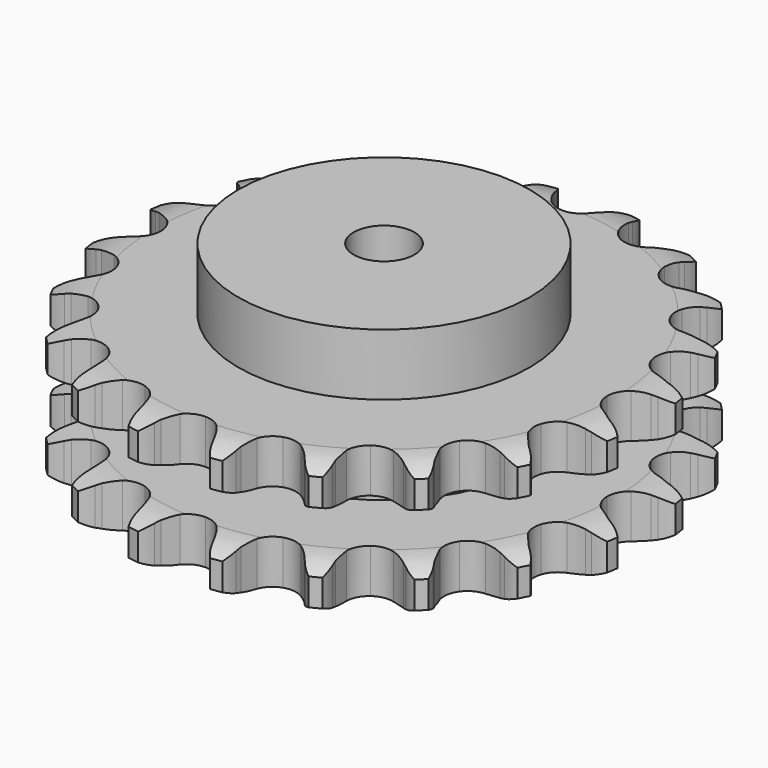
from build123d import *

# Parameters (mm, degrees)
PAD_DEPTH         = 54.6
SKETCH001_R       = 60
PAD001_DEPTH      = 80
SKETCH002_R       = 12.5
POCKET_DEPTH      = 0.001
POCKET_DEPTH_BACK = 80.001


with BuildPart() as part:
    # Sprocket → Pad (new body)
    with BuildSketch(Plane.XY):
        with BuildLine():
            ThreePointArc((-17.474997, 110.332786), (-14.144859, 107.282987), (-11.816516, 103.413891))
            Line((-11.816516, 103.413891), (-10.899684, 101.232833))
            ThreePointArc((-10.899684, 101.232833), (-9.424806, 98.28757), (-7.573355, 95.563242))
            ThreePointArc((-7.573355, 95.563242), (-4.213065, 92.842132), (0, 91.86947))
            ThreePointArc((0, 91.86947), (4.213065, 92.842132), (7.573355, 95.563242))
            ThreePointArc((7.573355, 95.563242), (9.424806, 98.28757), (10.899684, 101.232833))
            Line((10.899684, 101.232833), (11.816516, 103.413891))
            ThreePointArc((11.816516, 103.413891), (14.144859, 107.282987), (17.474997, 110.332786))
            ThreePointArc((17.474997, 110.332786), (19.699706, 106.403186), (20.718475, 102.003959))
            Line((20.718475, 102.003959), (20.91645, 99.646333))
            ThreePointArc((20.91645, 99.646333), (21.409006, 96.389459), (22.327977, 93.226339))
            ThreePointArc((22.327977, 93.226339), (24.682934, 89.600024), (28.389227, 87.373058))
            ThreePointArc((28.389227, 87.373058), (32.696659, 86.996207), (36.733354, 88.545749))
            Line((36.733354, 88.545749), (41.648881, 92.909957))
            ThreePointArc((41.648881, 92.909957), (42.400527, 93.823862), (43.194825, 94.70095))
            ThreePointArc((43.194825, 94.70095), (46.604827, 97.661182), (50.714415, 99.532645))
            ThreePointArc((50.714415, 99.532645), (51.615926, 95.1079), (51.225397, 90.609169))
            Line((51.225397, 90.609169), (50.685137, 88.305755))
            ThreePointArc((50.685137, 88.305755), (50.147156, 85.056076), (50.043692, 81.763793))
            ThreePointArc((50.043692, 81.763793), (51.162795, 77.58724), (53.99952, 74.323962))
            ThreePointArc((53.99952, 74.323962), (57.979677, 72.634486), (62.297637, 72.86078))
            Line((62.297637, 72.86078), (68.321195, 75.492409))
            ThreePointArc((68.321195, 75.492409), (69.318465, 76.129312), (70.344922, 76.718021))
            ThreePointArc((70.344922, 76.718021), (74.502789, 78.47962), (78.989554, 78.989554))
            ThreePointArc((78.989554, 78.989554), (78.47962, 74.502789), (76.718021, 70.344922))
            Line((76.718021, 70.344922), (75.492409, 68.321195))
            ThreePointArc((75.492409, 68.321195), (73.976552, 65.396812), (72.86078, 62.297637))
            ThreePointArc((72.86078, 62.297637), (72.634486, 57.979677), (74.323962, 53.99952))
            ThreePointArc((74.323962, 53.99952), (77.58724, 51.162795), (81.763793, 50.043692))
            Line((81.763793, 50.043692), (88.305755, 50.685137))
            ThreePointArc((88.305755, 50.685137), (89.451029, 50.982695), (90.609169, 51.225397))
            ThreePointArc((90.609169, 51.225397), (95.1079, 51.615926), (99.532645, 50.714415))
            ThreePointArc((99.532645, 50.714415), (97.661182, 46.604827), (94.70095, 43.194825))
            Line((94.70095, 43.194825), (92.909957, 41.648881))
            ThreePointArc((92.909957, 41.648881), (90.564609, 39.336053), (88.545749, 36.733354))
            ThreePointArc((88.545749, 36.733354), (86.996207, 32.696659), (87.373058, 28.389227))
            ThreePointArc((87.373058, 28.389227), (89.600024, 24.682934), (93.226339, 22.327977))
            Line((93.226339, 22.327977), (99.646333, 20.91645))
            ThreePointArc((99.646333, 20.91645), (100.827503, 20.845536), (102.003959, 20.718475))
            ThreePointArc((102.003959, 20.718475), (106.403186, 19.699706), (110.332786, 17.474997))
            ThreePointArc((110.332786, 17.474997), (107.282987, 14.144859), (103.413891, 11.816516))
            Line((103.413891, 11.816516), (101.232833, 10.899684))
            ThreePointArc((101.232833, 10.899684), (98.28757, 9.424806), (95.563242, 7.573355))
            ThreePointArc((95.563242, 7.573355), (92.842132, 4.213065), (91.86947, 0))
            ThreePointArc((91.86947, 0), (92.842132, -4.213065), (95.563242, -7.573355))
            Line((95.563242, -7.573355), (101.232833, -10.899684))
            ThreePointArc((101.232833, -10.899684), (102.334279, -11.332129), (103.413891, -11.816516))
            ThreePointArc((103.413891, -11.816516), (107.282987, -14.144859), (110.332786, -17.474997))
            ThreePointArc((110.332786, -17.474997), (106.403186, -19.699706), (102.003959, -20.718475))
            Line((102.003959, -20.718475), (99.646333, -20.91645))
            ThreePointArc((99.646333, -20.91645), (96.389459, -21.409006), (93.226339, -22.327977))
            ThreePointArc((93.226339, -22.327977), (89.600024, -24.682934), (87.373058, -28.389227))
            ThreePointArc((87.373058, -28.389227), (86.996207, -32.696659), (88.545749, -36.733354))
            Line((88.545749, -36.733354), (92.909957, -41.648881))
            ThreePointArc((92.909957, -41.648881), (93.823862, -42.400527), (94.70095, -43.194825))
            ThreePointArc((94.70095, -43.194825), (97.661182, -46.604827), (99.532645, -50.714415))
            ThreePointArc((99.532645, -50.714415), (95.1079, -51.615926), (90.609169, -51.225397))
            Line((90.609169, -51.225397), (88.305755, -50.685137))
            ThreePointArc((88.305755, -50.685137), (85.056076, -50.147156), (81.763793, -50.043692))
            ThreePointArc((81.763793, -50.043692), (77.58724, -51.162795), (74.323962, -53.99952))
            ThreePointArc((74.323962, -53.99952), (72.634486, -57.979677), (72.86078, -62.297637))
            Line((72.86078, -62.297637), (75.492409, -68.321195))
            ThreePointArc((75.492409, -68.321195), (76.129312, -69.318465), (76.718021, -70.344922))
            ThreePointArc((76.718021, -70.344922), (78.47962, -74.502789), (78.989554, -78.989554))
            ThreePointArc((78.989554, -78.989554), (74.502789, -78.47962), (70.344922, -76.718021))
            Line((70.344922, -76.718021), (68.321195, -75.492409))
            ThreePointArc((68.321195, -75.492409), (65.396812, -73.976552), (62.297637, -72.86078))
            ThreePointArc((62.297637, -72.86078), (57.979677, -72.634486), (53.99952, -74.323962))
            ThreePointArc((53.99952, -74.323962), (51.162795, -77.58724), (50.043692, -81.763793))
            Line((50.043692, -81.763793), (50.685137, -88.305755))
            ThreePointArc((50.685137, -88.305755), (50.982695, -89.451029), (51.225397, -90.609169))
            ThreePointArc((51.225397, -90.609169), (51.615926, -95.1079), (50.714415, -99.532645))
            ThreePointArc((50.714415, -99.532645), (46.604827, -97.661182), (43.194825, -94.70095))
            Line((43.194825, -94.70095), (41.648881, -92.909957))
            ThreePointArc((41.648881, -92.909957), (39.336053, -90.564609), (36.733354, -88.545749))
            ThreePointArc((36.733354, -88.545749), (32.696659, -86.996207), (28.389227, -87.373058))
            ThreePointArc((28.389227, -87.373058), (24.682934, -89.600024), (22.327977, -93.226339))
            Line((22.327977, -93.226339), (20.91645, -99.646333))
            ThreePointArc((20.91645, -99.646333), (20.845536, -100.827503), (20.718475, -102.003959))
            ThreePointArc((20.718475, -102.003959), (19.699706, -106.403186), (17.474997, -110.332786))
            ThreePointArc((17.474997, -110.332786), (14.144859, -107.282987), (11.816516, -103.413891))
            Line((11.816516, -103.413891), (10.899684, -101.232833))
            ThreePointArc((10.899684, -101.232833), (9.424806, -98.28757), (7.573355, -95.563242))
            ThreePointArc((7.573355, -95.563242), (4.213065, -92.842132), (0, -91.86947))
            ThreePointArc((0, -91.86947), (-4.213065, -92.842132), (-7.573355, -95.563242))
            Line((-7.573355, -95.563242), (-10.899684, -101.232833))
            ThreePointArc((-10.899684, -101.232833), (-11.332129, -102.334279), (-11.816516, -103.413891))
            ThreePointArc((-11.816516, -103.413891), (-14.144859, -107.282987), (-17.474997, -110.332786))
            ThreePointArc((-17.474997, -110.332786), (-19.699706, -106.403186), (-20.718475, -102.003959))
            Line((-20.718475, -102.003959), (-20.91645, -99.646333))
            ThreePointArc((-20.91645, -99.646333), (-21.409006, -96.389459), (-22.327977, -93.226339))
            ThreePointArc((-22.327977, -93.226339), (-24.682934, -89.600024), (-28.389227, -87.373058))
            ThreePointArc((-28.389227, -87.373058), (-32.696659, -86.996207), (-36.733354, -88.545749))
            Line((-36.733354, -88.545749), (-41.648881, -92.909957))
            ThreePointArc((-41.648881, -92.909957), (-42.400527, -93.823862), (-43.194825, -94.70095))
            ThreePointArc((-43.194825, -94.70095), (-46.604827, -97.661182), (-50.714415, -99.532645))
            ThreePointArc((-50.714415, -99.532645), (-51.615926, -95.1079), (-51.225397, -90.609169))
            Line((-51.225397, -90.609169), (-50.685137, -88.305755))
            ThreePointArc((-50.685137, -88.305755), (-50.147156, -85.056076), (-50.043692, -81.763793))
            ThreePointArc((-50.043692, -81.763793), (-51.162795, -77.58724), (-53.99952, -74.323962))
            ThreePointArc((-53.99952, -74.323962), (-57.979677, -72.634486), (-62.297637, -72.86078))
            Line((-62.297637, -72.86078), (-68.321195, -75.492409))
            ThreePointArc((-68.321195, -75.492409), (-69.318465, -76.129312), (-70.344922, -76.718021))
            ThreePointArc((-70.344922, -76.718021), (-74.502789, -78.47962), (-78.989554, -78.989554))
            ThreePointArc((-78.989554, -78.989554), (-78.47962, -74.502789), (-76.718021, -70.344922))
            Line((-76.718021, -70.344922), (-75.492409, -68.321195))
            ThreePointArc((-75.492409, -68.321195), (-73.976552, -65.396812), (-72.86078, -62.297637))
            ThreePointArc((-72.86078, -62.297637), (-72.634486, -57.979677), (-74.323962, -53.99952))
            ThreePointArc((-74.323962, -53.99952), (-77.58724, -51.162795), (-81.763793, -50.043692))
            Line((-81.763793, -50.043692), (-88.305755, -50.685137))
            ThreePointArc((-88.305755, -50.685137), (-89.451029, -50.982695), (-90.609169, -51.225397))
            ThreePointArc((-90.609169, -51.225397), (-95.1079, -51.615926), (-99.532645, -50.714415))
            ThreePointArc((-99.532645, -50.714415), (-97.661182, -46.604827), (-94.70095, -43.194825))
            Line((-94.70095, -43.194825), (-92.909957, -41.648881))
            ThreePointArc((-92.909957, -41.648881), (-90.564609, -39.336053), (-88.545749, -36.733354))
            ThreePointArc((-88.545749, -36.733354), (-86.996207, -32.696659), (-87.373058, -28.389227))
            ThreePointArc((-87.373058, -28.389227), (-89.600024, -24.682934), (-93.226339, -22.327977))
            Line((-93.226339, -22.327977), (-99.646333, -20.91645))
            ThreePointArc((-99.646333, -20.91645), (-100.827503, -20.845536), (-102.003959, -20.718475))
            ThreePointArc((-102.003959, -20.718475), (-106.403186, -19.699706), (-110.332786, -17.474997))
            ThreePointArc((-110.332786, -17.474997), (-107.282987, -14.144859), (-103.413891, -11.816516))
            Line((-103.413891, -11.816516), (-101.232833, -10.899684))
            ThreePointArc((-101.232833, -10.899684), (-98.28757, -9.424806), (-95.563242, -7.573355))
            ThreePointArc((-95.563242, -7.573355), (-92.842132, -4.213065), (-91.86947, 0))
            ThreePointArc((-91.86947, 0), (-92.842132, 4.213065), (-95.563242, 7.573355))
            Line((-95.563242, 7.573355), (-101.232833, 10.899684))
            ThreePointArc((-101.232833, 10.899684), (-102.334279, 11.332129), (-103.413891, 11.816516))
            ThreePointArc((-103.413891, 11.816516), (-107.282987, 14.144859), (-110.332786, 17.474997))
            ThreePointArc((-110.332786, 17.474997), (-106.403186, 19.699706), (-102.003959, 20.718475))
            Line((-102.003959, 20.718475), (-99.646333, 20.91645))
            ThreePointArc((-99.646333, 20.91645), (-96.389459, 21.409006), (-93.226339, 22.327977))
            ThreePointArc((-93.226339, 22.327977), (-89.600024, 24.682934), (-87.373058, 28.389227))
            ThreePointArc((-87.373058, 28.389227), (-86.996207, 32.696659), (-88.545749, 36.733354))
            Line((-88.545749, 36.733354), (-92.909957, 41.648881))
            ThreePointArc((-92.909957, 41.648881), (-93.823862, 42.400527), (-94.70095, 43.194825))
            ThreePointArc((-94.70095, 43.194825), (-97.661182, 46.604827), (-99.532645, 50.714415))
            ThreePointArc((-99.532645, 50.714415), (-95.1079, 51.615926), (-90.609169, 51.225397))
            Line((-90.609169, 51.225397), (-88.305755, 50.685137))
            ThreePointArc((-88.305755, 50.685137), (-85.056076, 50.147156), (-81.763793, 50.043692))
            ThreePointArc((-81.763793, 50.043692), (-77.58724, 51.162795), (-74.323962, 53.99952))
            ThreePointArc((-74.323962, 53.99952), (-72.634486, 57.979677), (-72.86078, 62.297637))
            Line((-72.86078, 62.297637), (-75.492409, 68.321195))
            ThreePointArc((-75.492409, 68.321195), (-76.129312, 69.318465), (-76.718021, 70.344922))
            ThreePointArc((-76.718021, 70.344922), (-78.47962, 74.502789), (-78.989554, 78.989554))
            ThreePointArc((-78.989554, 78.989554), (-74.502789, 78.47962), (-70.344922, 76.718021))
            Line((-70.344922, 76.718021), (-68.321195, 75.492409))
            ThreePointArc((-68.321195, 75.492409), (-65.396812, 73.976552), (-62.297637, 72.86078))
            ThreePointArc((-62.297637, 72.86078), (-57.979677, 72.634486), (-53.99952, 74.323962))
            ThreePointArc((-53.99952, 74.323962), (-51.162795, 77.58724), (-50.043692, 81.763793))
            Line((-50.043692, 81.763793), (-50.685137, 88.305755))
            ThreePointArc((-50.685137, 88.305755), (-50.982695, 89.451029), (-51.225397, 90.609169))
            ThreePointArc((-51.225397, 90.609169), (-51.615926, 95.1079), (-50.714415, 99.532645))
            ThreePointArc((-50.714415, 99.532645), (-46.604827, 97.661182), (-43.194825, 94.70095))
            Line((-43.194825, 94.70095), (-41.648881, 92.909957))
            ThreePointArc((-41.648881, 92.909957), (-39.336053, 90.564609), (-36.733354, 88.545749))
            ThreePointArc((-36.733354, 88.545749), (-32.696659, 86.996207), (-28.389227, 87.373058))
            ThreePointArc((-28.389227, 87.373058), (-24.682934, 89.600024), (-22.327977, 93.226339))
            Line((-22.327977, 93.226339), (-20.91645, 99.646333))
            ThreePointArc((-20.91645, 99.646333), (-20.845536, 100.827503), (-20.718475, 102.003959))
            ThreePointArc((-20.718475, 102.003959), (-19.699706, 106.403186), (-17.474997, 110.332786))
        make_face()
    extrude(amount=PAD_DEPTH)

    # Sketch → Groove (revolve, cut)
    with BuildSketch(Plane.XZ):
        with BuildLine():
            ThreePointArc((94.498368, 0), (101.981683, 0.887302), (109.05, 3.5))
            Line((109.05, 3.5), (109.05, 14.7))
            ThreePointArc((109.05, 14.7), (101.981683, 17.312698), (94.498368, 18.2))
            Line((60, 18.2), (94.498368, 18.2))
            Line((60, 36.4), (60, 18.2))
            Line((94.498368, 36.4), (60, 36.4))
            ThreePointArc((94.498368, 36.4), (101.981683, 37.287302), (109.05, 39.9))
            Line((109.05, 39.9), (109.05, 51.1))
            ThreePointArc((109.05, 51.1), (101.981683, 53.712698), (94.498368, 54.6))
            Line((94.498368, 54.6), (119.05, 54.6))
            Line((119.05, 54.6), (119.05, 0))
            Line((94.498368, 0), (119.05, 0))
        make_face()
    revolve(axis=Axis((0, 0, 0), (0, 0, 1)), mode=Mode.SUBTRACT)

    # Sketch001 → Pad001 (join)
    with BuildSketch(Plane.XY):
        Circle(SKETCH001_R)
    extrude(amount=PAD001_DEPTH)

    # Sketch002 → Pocket (cut, two sides)
    with BuildSketch(Plane.XY) as pocket_sk:
        Circle(SKETCH002_R)
    extrude(amount=-POCKET_DEPTH, mode=Mode.SUBTRACT)
    extrude(pocket_sk.sketch, amount=POCKET_DEPTH_BACK, mode=Mode.SUBTRACT)


solid = part.part
